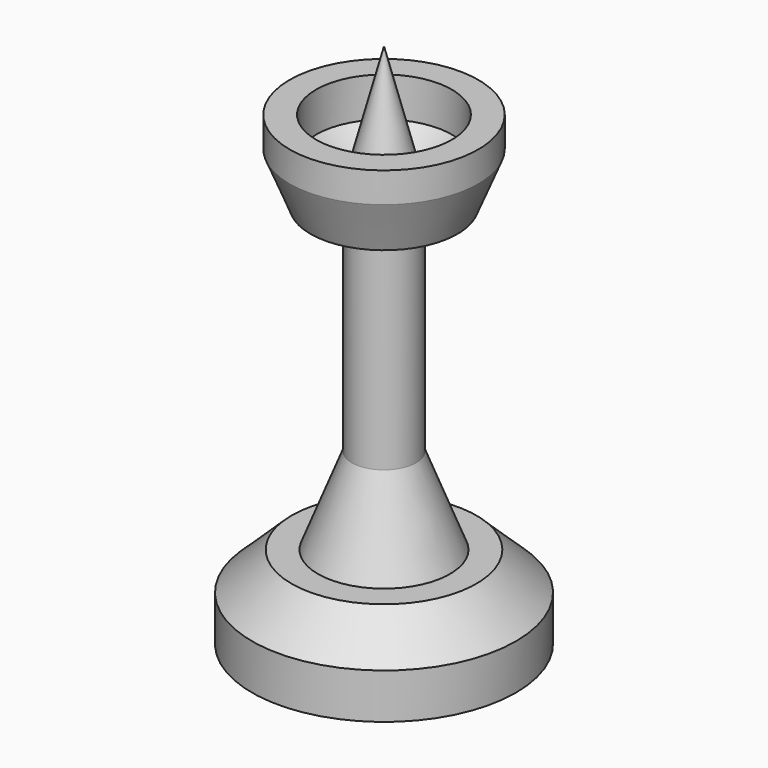
from build123d import *


with BuildPart() as f1:
    # F0 (on Front) → F1 (revolve)
    with BuildSketch(Plane.XZ):
        Polygon((-13.494493, -27.085373), (0, -27.085373), (0, 26.699817), (-3.084456, 14.940332), (-5.01224, 14.940332), (-6.940024, 16.482558), (-6.940024, 20.530906), (-9.638923, 20.530906), (-9.638923, 17.446451), (-7.51836, 12.241432), (-3.277234, 12.241432), (-3.277234, -9.735312), (-6.747246, -18.603122), (-9.446145, -18.603122), (-13.494493, -22.458691), align=None)
    revolve(axis=Axis((0, 0, -0.192778), (0, 0, -1)))


solid = f1.part
